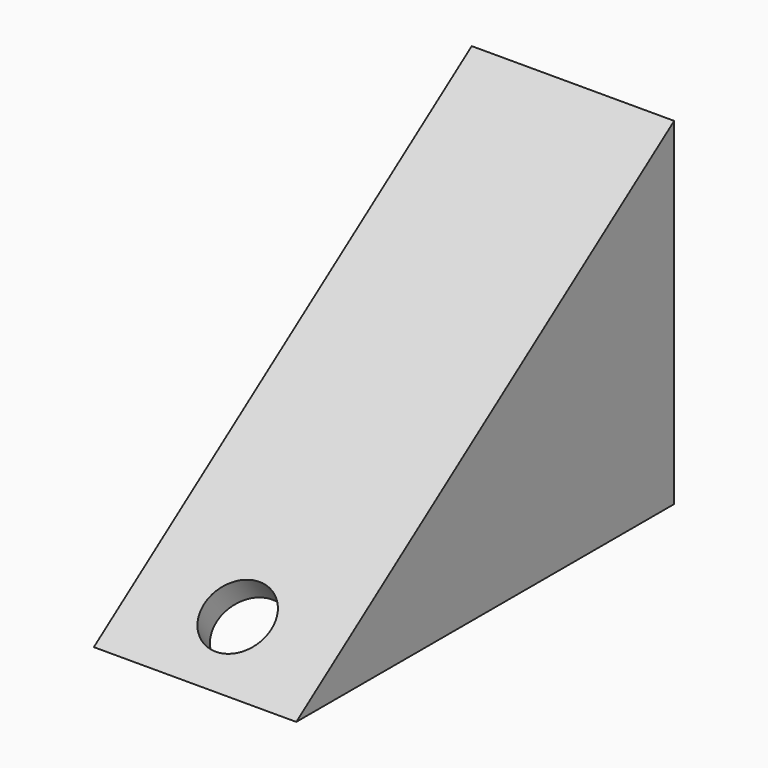
from build123d import *

# Parameters (mm, degrees)
F1_DEPTH       = 38.1
F2_T           = -5.08
F4_D           = 6.35
F4_CBORE_D     = 12.7
F4_CBORE_DEPTH = 5.08


with BuildPart() as f1:
    # F0 (on Right) → F1 (new body)
    with BuildSketch(Plane.YZ):
        Polygon((54.129655, 38.559098), (-34.77033, -24.890102), (54.129655, -24.940902), align=None)
    extrude(amount=F1_DEPTH)

    # F2
    f2_openings = [f1.faces().sort_by_distance(p)[0] for p in [
        (19.05, 9.679663, -24.915502),
        (19.05, 54.129655, 6.809098),
    ]]
    offset(amount=F2_T, openings=f2_openings)

    # F4 (through all)
    with Locations(Plane(origin=(0, 0.034999, -0.049037), x_dir=(1, 0, 0), z_dir=(0, -0.58093, 0.813953))):
        with Locations((19.05, -30.451737)):
            CounterBoreHole(F4_D / 2, F4_CBORE_D / 2, F4_CBORE_DEPTH)


solid = f1.part
